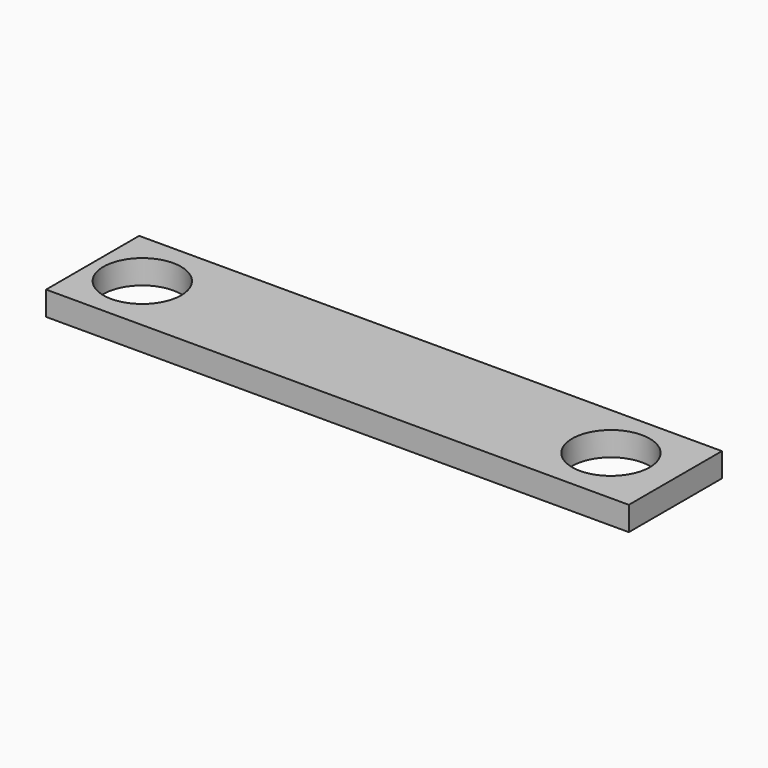
from build123d import *

# Parameters (mm, degrees)
F0_W     = 153.629432
F0_H     = 30.674762
F1_DEPTH = 6.35
F2_R     = 10.235385
F2_R_2   = 10.230865
F3_DEPTH = 25.4


with BuildPart() as f1:
    # F0 (on Top) → F1 (new body)
    with BuildSketch(Plane.XY):
        with Locations((48.057127, -9.458051)):
            Rectangle(F0_W, F0_H)
    extrude(amount=F1_DEPTH)

    # F2 (on Top) → F3 (cut)
    with BuildSketch(Plane.XY):
        with Locations((-15.669079, -9.458051)):
            Circle(F2_R)
        with Locations((107.54855, -9.036078)):
            Circle(F2_R_2)
    extrude(amount=F3_DEPTH, mode=Mode.SUBTRACT)


solid = f1.part
